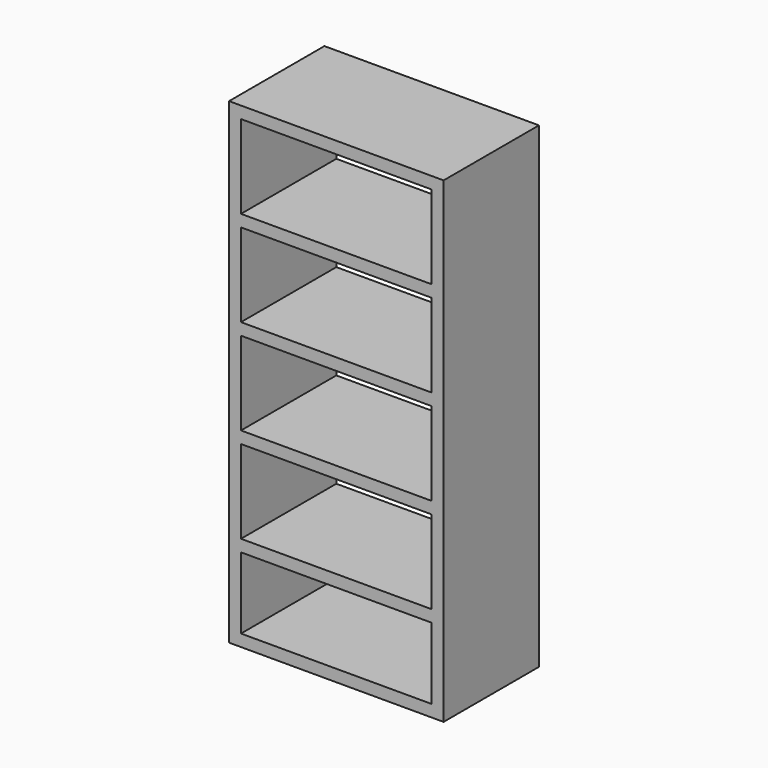
from build123d import *

# Parameters (mm, degrees)
F0_W     = 900
F0_H     = 2000
F0_W_2   = 800
F0_H_2   = 300
F0_H_3   = 350
F1_DEPTH = 500


with BuildPart() as f1:
    # F0 (on Front) → F1 (new body)
    with BuildSketch(Plane.XZ):
        Rectangle(F0_W, F0_H)
        with Locations((0, -800)):
            Rectangle(F0_W_2, F0_H_2, mode=Mode.SUBTRACT)
        with Locations((0, -425)):
            Rectangle(F0_W_2, F0_H_3, mode=Mode.SUBTRACT)
        with Locations((0, -25)):
            Rectangle(F0_W_2, F0_H_3, mode=Mode.SUBTRACT)
        with Locations((0, 375)):
            Rectangle(F0_W_2, F0_H_3, mode=Mode.SUBTRACT)
        with Locations((0, 775)):
            Rectangle(F0_W_2, F0_H_3, mode=Mode.SUBTRACT)
    extrude(amount=F1_DEPTH)


solid = f1.part
